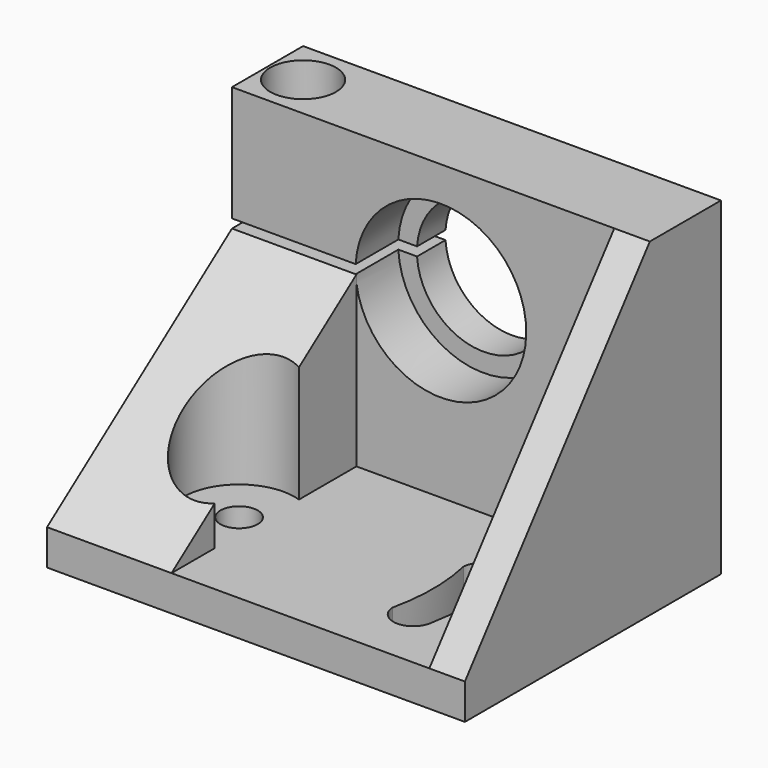
from build123d import *

# Parameters (mm, degrees)
CYLINDER052_R             = 6.25
CYLINDER052_DEPTH         = 17
CYLINDER051_R             = 2.1
CYLINDER051_DEPTH         = 10
EXTRUDE014_DEPTH          = 10
EXTRUDE016_DEPTH          = 14
EXTRUDE015_DEPTH          = 4
BOX021_W                  = 47
BOX021_H                  = 26
BOX021_DEPTH              = 4
CYLINDER044_R             = 4
CYLINDER044_DEPTH         = 4
BOX014_W                  = 13
BOX014_H                  = 8
BOX014_DEPTH              = 4
FUSION015_PLACEMENT_ANGLE = 180
CYLINDER039_R             = 1.6
CYLINDER039_DEPTH         = 15
CYLINDER043_R             = 3.7
CYLINDER043_DEPTH         = 10
CYLINDER045_R             = 7.5
CYLINDER045_DEPTH         = 6
CYLINDER042_R             = 9.6
CYLINDER042_DEPTH         = 6
BOX012_W                  = 26
BOX012_H                  = 42
BOX012_DEPTH              = 1
BOX013_W                  = 47
BOX013_H                  = 10
BOX013_DEPTH              = 37


with BuildPart() as cylinder052:
    # Cylinder052 → Cylinder052 (new body)
    with BuildSketch(Plane.XY.offset(10)):
        Circle(CYLINDER052_R)
    extrude(amount=CYLINDER052_DEPTH)


with BuildPart() as fusion022:
    # Cylinder051 → Cylinder051 (new body)
    with BuildSketch(Plane.XY):
        Circle(CYLINDER051_R)
    extrude(amount=CYLINDER051_DEPTH)

    # Fusion022: union Cylinder052
    add(cylinder052.part)


with BuildPart() as fusion022_1:
    # Fusion022 placement: moved
    add(fusion022.part.moved(Location((12, 12, -6))))


with BuildPart() as extrude014:
    # Sketch010 → Extrude014 (new body)
    with BuildSketch(Plane.XY):
        with BuildLine():
            ThreePointArc((35.736492, 10), (36.2, 15), (35.736492, 20))
            ThreePointArc((35.736492, 20), (33.490746, 22.111711), (31.244999, 20))
            ThreePointArc((31.244999, 10), (31.8, 15), (31.244999, 20))
            ThreePointArc((31.244999, 10), (33.490746, 7.888289), (35.736492, 10))
        make_face()
    extrude(amount=-EXTRUDE014_DEPTH)


with BuildPart() as extrude014_1:
    # Extrude014 placement: moved
    add(extrude014.part.moved(Location((2, -3, 8))))


with BuildPart() as extrude016:
    # Sketch015 → Extrude016 (new body)
    with BuildSketch(Plane.YZ):
        Polygon((0, 4), (26, 4), (26, 23), align=None)
    extrude(amount=EXTRUDE016_DEPTH)


with BuildPart() as extrude015:
    # Sketch014 → Extrude015 (new body)
    with BuildSketch(Plane.YZ):
        Polygon((0, 4), (26, 4), (26, 37), align=None)
    extrude(amount=EXTRUDE015_DEPTH)


with BuildPart() as extrude015_1:
    # Extrude015 placement: moved
    add(extrude015.part.moved(Location((43, 0, 0))))


with BuildPart() as box021:
    # Box021 → Box021 (new body)
    with BuildSketch(Plane.XY):
        with Locations((23.5, 13)):
            Rectangle(BOX021_W, BOX021_H)
    extrude(amount=BOX021_DEPTH)


with BuildPart() as cylinder044:
    # Cylinder044 → Cylinder044 (new body)
    with BuildSketch(Plane(origin=(9, 11, -8), x_dir=(1, 0, 0), z_dir=(0, 0, 1))):
        Circle(CYLINDER044_R)
    extrude(amount=CYLINDER044_DEPTH)


with BuildPart() as fusion015:
    # Box014 → Box014 (new body)
    with BuildSketch(Plane(origin=(9, 7, -8), x_dir=(1, 0, 0), z_dir=(0, 0, 1))):
        with Locations((6.5, 4)):
            Rectangle(BOX014_W, BOX014_H)
    extrude(amount=BOX014_DEPTH)

    # Fusion015: union Cylinder044
    add(cylinder044.part)


with BuildPart() as fusion015_1:
    # Fusion015 placement: moved
    add(fusion015.part.moved(Location((13, 42, 21))).rotate(Axis((13, 42, 21), (0, 0, 1)), FUSION015_PLACEMENT_ANGLE))


with BuildPart() as cylinder039:
    # Cylinder039 → Cylinder039 (new body)
    with BuildSketch(Plane.XY):
        Circle(CYLINDER039_R)
    extrude(amount=CYLINDER039_DEPTH)


with BuildPart() as fusion016:
    # Cone002 → Cone002 (revolve)
    with BuildSketch(Plane(origin=(0, 0, 15), x_dir=(1, 0, 0), z_dir=(0, -1, 0))):
        Polygon((0, 0), (1.6, 0), (3, 3.5), (0, 3.5), align=None)
    revolve(axis=Axis((0, 0, 15), (0, 0, 1)))

    # Fusion016: union Cylinder039
    add(cylinder039.part)


with BuildPart() as fusion016_1:
    # Fusion016 placement: moved
    add(fusion016.part.moved(Location((4, 31, 13.5))))


with BuildPart() as cylinder043:
    # Cylinder043 → Cylinder043 (new body)
    with BuildSketch(Plane(origin=(4, 31, 32), x_dir=(1, 0, 0), z_dir=(0, 0, 1))):
        Circle(CYLINDER043_R)
    extrude(amount=CYLINDER043_DEPTH)


with BuildPart() as cylinder045:
    # Cylinder045 → Cylinder045 (new body)
    with BuildSketch(Plane(origin=(23.5, 30, 23.5), x_dir=(1, 0, 0), z_dir=(0, 1, 0))):
        Circle(CYLINDER045_R)
    extrude(amount=CYLINDER045_DEPTH)


with BuildPart() as cylinder042:
    # Cylinder042 → Cylinder042 (new body)
    with BuildSketch(Plane(origin=(23.5, 26, 23.5), x_dir=(1, 0, 0), z_dir=(0, 1, 0))):
        Circle(CYLINDER042_R)
    extrude(amount=CYLINDER042_DEPTH)


with BuildPart() as box012:
    # Box012 → Box012 (new body)
    with BuildSketch(Plane(origin=(-4, 13, 23), x_dir=(1, 0, 0), z_dir=(0, 0, 1))):
        with Locations((13, 21)):
            Rectangle(BOX012_W, BOX012_H)
    extrude(amount=BOX012_DEPTH)


with BuildPart() as cut054:
    # Box013 → Box013 (new body)
    with BuildSketch(Plane(origin=(0, 26, 0), x_dir=(1, 0, 0), z_dir=(0, 0, 1))):
        with Locations((23.5, 5)):
            Rectangle(BOX013_W, BOX013_H)
    extrude(amount=BOX013_DEPTH)

    # Cut047: cut Box012
    add(box012.part, mode=Mode.SUBTRACT)

    # Cut048: cut Cylinder042
    add(cylinder042.part, mode=Mode.SUBTRACT)

    # Cut049: cut Cylinder045
    add(cylinder045.part, mode=Mode.SUBTRACT)

    # Cut050: cut Cylinder043
    add(cylinder043.part, mode=Mode.SUBTRACT)

    # Cut051: cut Fusion016
    add(fusion016_1.part, mode=Mode.SUBTRACT)

    # Cut052: cut Fusion015
    add(fusion015_1.part, mode=Mode.SUBTRACT)

    # Fusion023: union Box021
    add(box021.part)

    # Fusion024: union Extrude016, Extrude015
    add(extrude016.part)
    add(extrude015_1.part)

    # Cut053: cut Extrude014
    add(extrude014_1.part, mode=Mode.SUBTRACT)

    # Cut054: cut Fusion022
    add(fusion022_1.part, mode=Mode.SUBTRACT)


with BuildPart() as cut054_1:
    # Cut054 placement: moved
    add(cut054.part.moved(Location((19, 198, -23))))


solid = cut054_1.part
